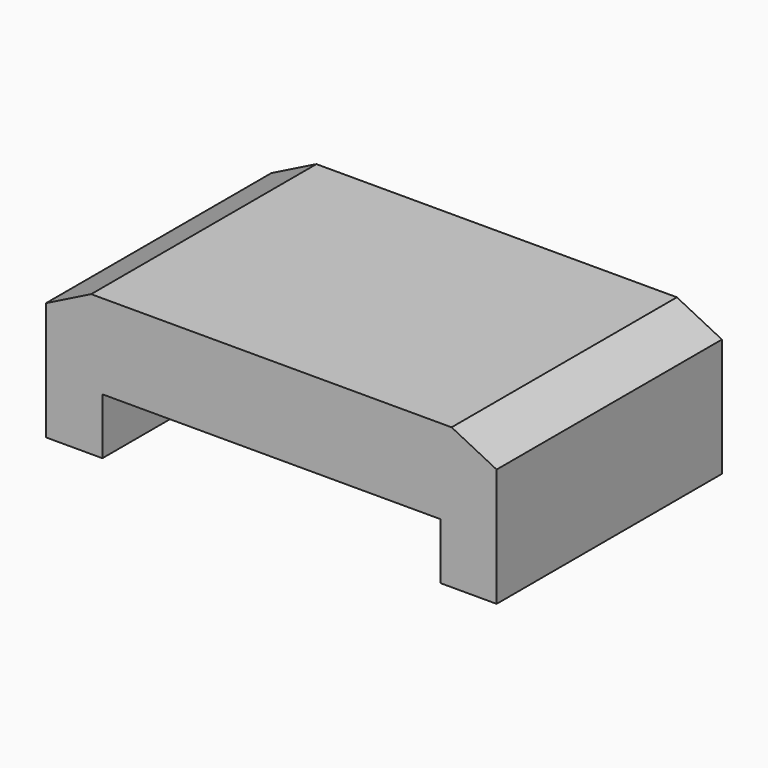
from build123d import *

# Parameters (mm, degrees)
F0_W       = 50.8
F0_H       = 31.75
F1_DEPTH   = 15.875
F2_W       = 38.1
F2_H       = 31.75
F3_DEPTH   = 6.35
F4_SIZE2   = 5.08
F4_SIZE    = 2.54
F4_2_SIZE2 = 5.08
F4_2_SIZE  = 2.54


with BuildPart() as f1:
    # F0 (on Top) → F1 (new body)
    with BuildSketch(Plane.XY):
        Rectangle(F0_W, F0_H)
    extrude(amount=-F1_DEPTH)

    # F2 (on face) → F3 (cut)
    with BuildSketch(Plane(origin=(0, 0, -15.875), x_dir=(1, 0, 0), z_dir=(0, 0, -1))):
        Rectangle(F2_W, F2_H)
    extrude(amount=-F3_DEPTH, mode=Mode.SUBTRACT)

    # F4
    f4_edges = [f1.edges().sort_by_distance(p)[0] for p in [
        (-25.4, 0, 0),
    ]]
    f4_side = f1.faces().sort_by_distance((-25.4, 0, -7.9375))[0]
    chamfer(f4_edges, length=F4_SIZE, length2=F4_SIZE2, reference=f4_side)

    # F4#2
    f4_2_edges = [f1.edges().sort_by_distance(p)[0] for p in [
        (25.4, 0, 0),
    ]]
    f4_2_side = f1.faces().sort_by_distance((25.4, 0, -7.9375))[0]
    chamfer(f4_2_edges, length=F4_2_SIZE, length2=F4_2_SIZE2, reference=f4_2_side)


solid = f1.part
